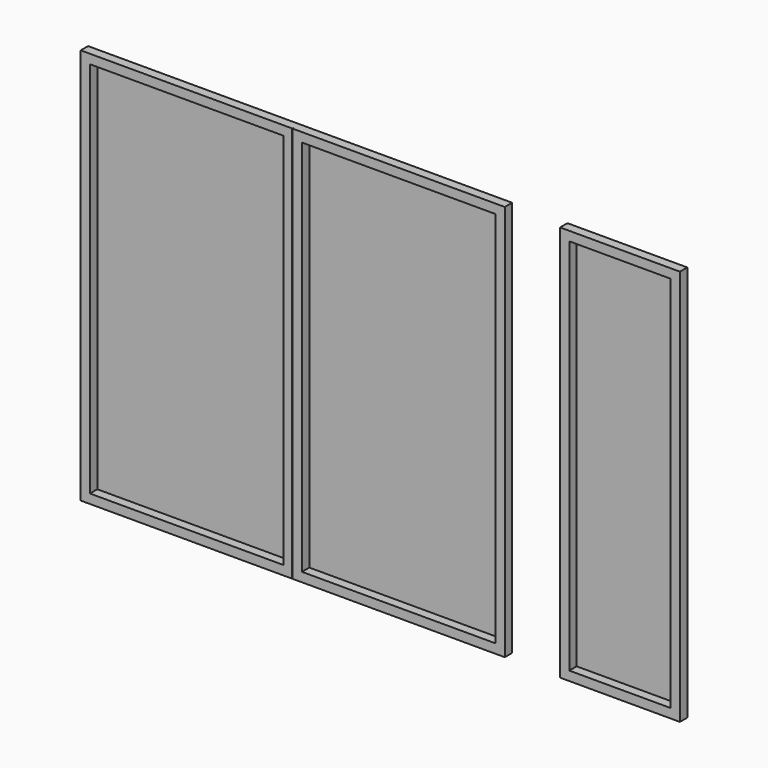
from build123d import *

# Parameters (mm, degrees)
F0_W     = 1150
F0_H     = 2150
F0_W_2   = 1050
F0_H_2   = 2050
F1_DEPTH = 50
F2_SIZE  = 5
F3_DEPTH = 50
F0_W_3   = 650
F0_W_4   = 550
F4_DEPTH = 50
F5_DEPTH = 20


with BuildPart() as f1:
    # F0 (on Front) → F1 (new body)
    with BuildSketch(Plane.XZ):
        with Locations((575, 1075)):
            Rectangle(F0_W, F0_H)
        with Locations((575, 1075)):
            Rectangle(F0_W_2, F0_H_2, mode=Mode.SUBTRACT)
    extrude(amount=F1_DEPTH)

    # F2
    f2_edges = [f1.edges().sort_by_distance(p)[0] for p in [
        (1150, -50, 1075),
    ]]
    chamfer(f2_edges, length=F2_SIZE)

    # F0 (on Front) → F3 (join)
    with BuildSketch(Plane.XZ):
        with Locations((1725, 1075)):
            Rectangle(F0_W, F0_H)
        with Locations((1725, 1075)):
            Rectangle(F0_W_2, F0_H_2, mode=Mode.SUBTRACT)
    extrude(amount=F3_DEPTH)


with BuildPart() as f4:
    # F0 (on Front) → F4 (new body)
    with BuildSketch(Plane.XZ):
        with Locations((2925, 1075)):
            Rectangle(F0_W_3, F0_H)
        with Locations((2925, 1075)):
            Rectangle(F0_W_4, F0_H_2, mode=Mode.SUBTRACT)
    extrude(amount=F4_DEPTH)


with BuildPart() as f5:
    # F0 (on Front) → F5 (new body)
    with BuildSketch(Plane.XZ):
        with Locations((575, 1075)):
            Rectangle(F0_W_2, F0_H_2)
        with Locations((1725, 1075)):
            Rectangle(F0_W_2, F0_H_2)
        with Locations((2925, 1075)):
            Rectangle(F0_W_4, F0_H_2)
    extrude(amount=-F5_DEPTH)


solid = Compound([f1.part, f4.part, f5.part])
